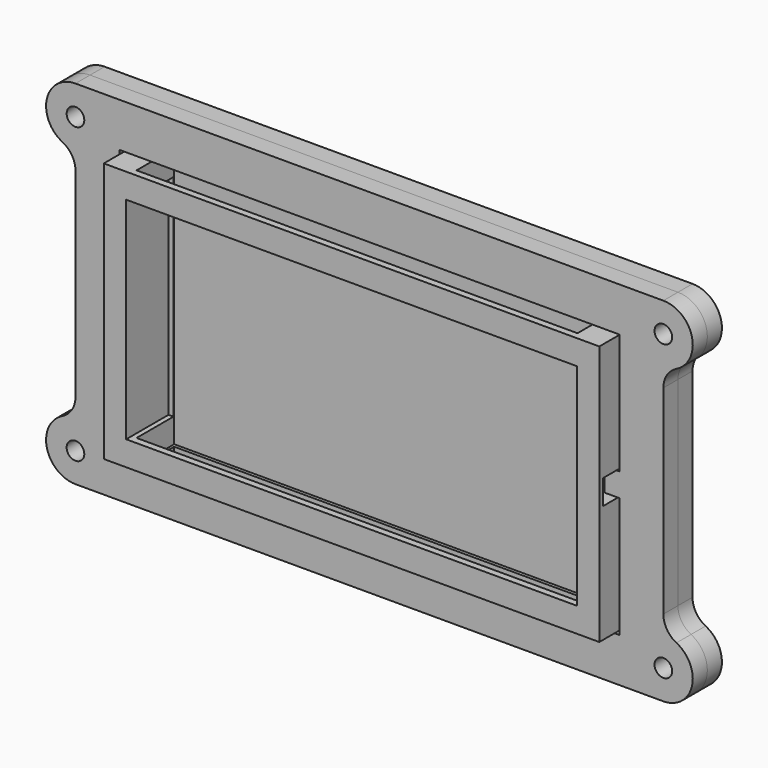
from build123d import *

# Parameters (mm, degrees)
F0_W      = 127
F0_H      = 76.2
F1_DEPTH  = 3.937
F2_W      = 107.95
F2_H      = 57.15
F3_DEPTH  = 25.4
F4_R      = 6.35
F5_DEPTH  = 3.937
F6_R      = 5.08
F7_R      = 1.905
F8_DEPTH  = 25.4
F9_W      = 3.175
F9_H      = 5.08
F10_DEPTH = 3.937
F11_DEPTH = 3.937
F12_W     = 95.25
F12_H     = 5.715
F13_DEPTH = 69.85
F14_W     = 107.0417910814
F14_H     = 56.2123097479
F15_DEPTH = 12.7
F16_W     = 97.3812863231
F16_H     = 45.5662533641
F17_DEPTH = 11.43
F18_W     = 95.25
F18_H     = 10.16
F19_DEPTH = 65.278
F20_W     = 10.795
F20_H     = 5.334
F21_DEPTH = 3.302
F22_W     = 10.795
F22_H     = 5.334
F23_DEPTH = 3.302


with BuildPart() as f1:
    # F0 (on Front) → F1 (new body)
    with BuildSketch(Plane.XZ):
        Rectangle(F0_W, F0_H)
    extrude(amount=F1_DEPTH)

    # F2 (on face) → F3 (cut)
    with BuildSketch(Plane.XZ.offset(3.937)):
        Rectangle(F2_W, F2_H)
    extrude(amount=-F3_DEPTH, mode=Mode.SUBTRACT)

    # F4 (on face) → F5 (join)
    with BuildSketch(Plane.XZ.offset(3.937)):
        with Locations((-63.5, 31.75)):
            Circle(F4_R)
        with Locations((63.5, 31.75)):
            Circle(F4_R)
        with Locations((-63.5, -31.75)):
            Circle(F4_R)
        with Locations((63.5, -31.75)):
            Circle(F4_R)
    extrude(amount=-F5_DEPTH)

    # F6
    f6_edges = [f1.edges().sort_by_distance(p)[0] for p in [
        (-63.5, -1.9685, 25.4),
        (-63.5, -1.9685, -25.4),
        (63.5, -1.9685, 25.4),
        (63.5, -1.9685, -25.4),
    ]]
    fillet(f6_edges, radius=F6_R)

    # F7 (on face) → F8 (cut)
    with BuildSketch(Plane.XZ.offset(3.937)):
        with Locations((-63.5, 31.75)):
            Circle(F7_R)
        with Locations((-63.5, -31.75)):
            Circle(F7_R)
        with Locations((63.5, -31.75)):
            Circle(F7_R)
        with Locations((63.5, 31.75)):
            Circle(F7_R)
    extrude(amount=-F8_DEPTH, mode=Mode.SUBTRACT)

    # F9 (on face) → F10 (join)
    with BuildSketch(Plane.XZ.offset(3.937)):
        with Locations((-52.3875, 0)):
            Rectangle(F9_W, F9_H)
        with Locations((52.3875, 0)):
            Rectangle(F9_W, F9_H)
    extrude(amount=-F10_DEPTH)


with BuildPart() as f11:
    # F11 (new): a face of the model
    f11_faces = [f1.part.faces().sort_by_distance(p)[0] for p in [
        (-61.9086945611, -3.937, 0),
    ]]
    extrude(f11_faces, amount=F11_DEPTH)


with BuildPart() as f13_tool:
    # F12 (on face) → F13 (new body)
    with BuildSketch(Plane(origin=(0, 0, -38.1), x_dir=(1, 0, 0), z_dir=(0, 0, -1))):
        with Locations((0, 3.937)):
            Rectangle(F12_W, F12_H)
    extrude(amount=-F13_DEPTH)


with BuildPart() as f1_1:
    add(f1.part)

    # F13: cut by f13_tool
    add(f13_tool.part, mode=Mode.SUBTRACT)


with BuildPart() as f11_1:
    add(f11.part)

    # F13: cut by f13_tool
    add(f13_tool.part, mode=Mode.SUBTRACT)


with BuildPart() as f15:
    # F14 (on Front) → F15 (new body)
    with BuildSketch(Plane.XZ):
        Rectangle(F14_W, F14_H)
    extrude(amount=F15_DEPTH)

    # F16 (on face) → F17 (cut)
    with BuildSketch(Plane.XZ.offset(12.7)):
        Rectangle(F16_W, F16_H)
    extrude(amount=-F17_DEPTH, mode=Mode.SUBTRACT)

    # F18 (on face) → F19 (cut)
    with BuildSketch(Plane.XY.offset(28.106154874)):
        with Locations((0, -6.1444608298)):
            Rectangle(F18_W, F18_H)
    extrude(amount=-F19_DEPTH, mode=Mode.SUBTRACT)

    # F20 (on face) → F21 (cut)
    with BuildSketch(Plane.YZ.offset(53.5208955407)):
        with Locations((-6.35, 0)):
            Rectangle(F20_W, F20_H)
    extrude(amount=-F21_DEPTH, mode=Mode.SUBTRACT)

    # F22 (on face) → F23 (cut)
    with BuildSketch(Plane(origin=(-53.5208955407, 0, 0), x_dir=(0, -1, 0), z_dir=(-1, 0, 0))):
        with Locations((6.6675, 0)):
            Rectangle(F22_W, F22_H)
    extrude(amount=-F23_DEPTH, mode=Mode.SUBTRACT)


solid = Compound([f1_1.part, f11_1.part, f15.part])
